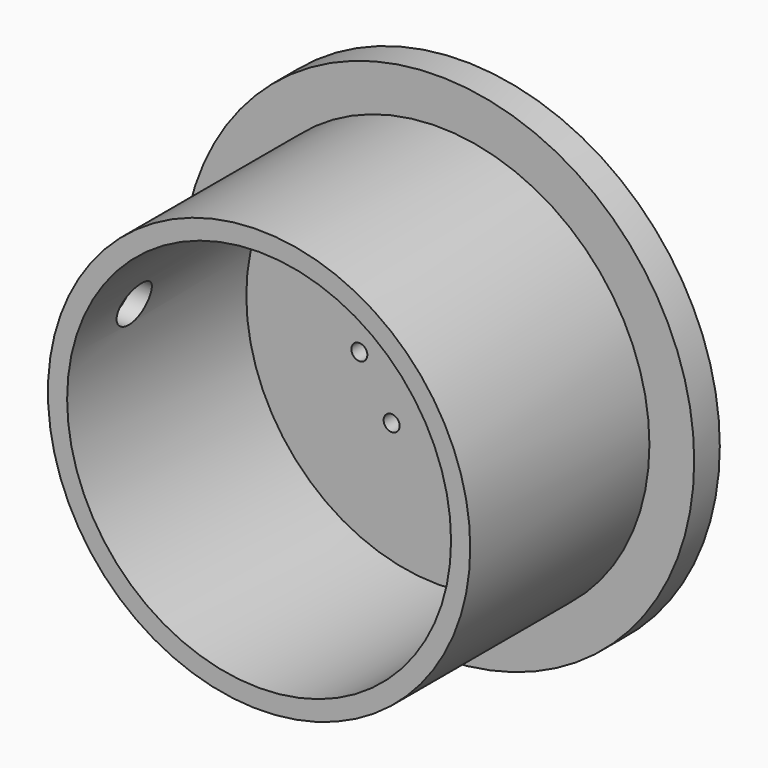
from build123d import *

# Parameters (mm, degrees)
F0_R     = 25.4
F0_R_2   = 20.955
F0_R_3   = 19.05
F0_R_4   = 0.79375
F0_R_5   = 1.27
F1_DEPTH = 3.175
F2_DEPTH = 25.4
F3_R     = 2.038323
F4_DEPTH = 25.4


with BuildPart() as f1:
    # F0 (on Front) → F1 (new body)
    with BuildSketch(Plane.XZ):
        Circle(F0_R)
        Circle(F0_R_2, mode=Mode.SUBTRACT)
        Circle(F0_R_3)
        with Locations((-4.627904, -6.448753)):
            Circle(F0_R_4, mode=Mode.SUBTRACT)
        with Locations((-7.832379, -1.287535)):
            Circle(F0_R_4, mode=Mode.SUBTRACT)
        Circle(F0_R_5, mode=Mode.SUBTRACT)
        with Locations((1.287535, -7.832379)):
            Circle(F0_R_4, mode=Mode.SUBTRACT)
        with Locations((6.448753, -4.627904)):
            Circle(F0_R_4, mode=Mode.SUBTRACT)
        with Locations((-6.448753, 4.627904)):
            Circle(F0_R_4, mode=Mode.SUBTRACT)
        with Locations((-1.287535, 7.832379)):
            Circle(F0_R_4, mode=Mode.SUBTRACT)
        with Locations((7.832379, 1.287535)):
            Circle(F0_R_4, mode=Mode.SUBTRACT)
        with Locations((4.627904, 6.448753)):
            Circle(F0_R_4, mode=Mode.SUBTRACT)
    extrude(amount=F1_DEPTH)

    # F0 (on Front) → F2 (join)
    with BuildSketch(Plane.XZ):
        Circle(F0_R_2)
        Circle(F0_R_3, mode=Mode.SUBTRACT)
    extrude(amount=F2_DEPTH)

    # F3 (on Right) → F4 (cut)
    with BuildSketch(Plane.YZ):
        with Locations((-18.186759, 5.693154)):
            Circle(F3_R)
    extrude(amount=-F4_DEPTH, mode=Mode.SUBTRACT)


solid = f1.part
